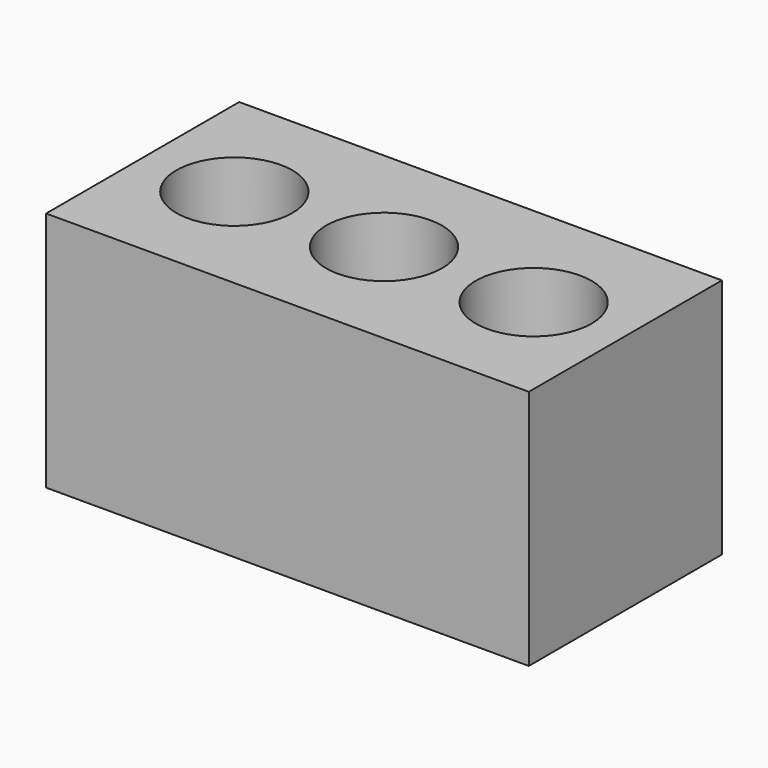
from build123d import *

# Parameters (mm, degrees)
F0_W     = 500
F0_H     = 250
F1_DEPTH = 250
F2_R     = 60
F3_DEPTH = 250


with BuildPart() as f1:
    # F0 (on Top) → F1 (new body)
    with BuildSketch(Plane.XY):
        with Locations((197.701387, 58.781631)):
            Rectangle(F0_W, F0_H)
    extrude(amount=F1_DEPTH)

    # F2 (on face) → F3 (cut)
    with BuildSketch(Plane.XY.offset(250)):
        with Locations((42.701387, 58.781631)):
            Circle(F2_R)
        with Locations((197.701387, 58.781631)):
            Circle(F2_R)
        with Locations((352.701387, 58.781631)):
            Circle(F2_R)
    extrude(amount=-F3_DEPTH, mode=Mode.SUBTRACT)


solid = f1.part
